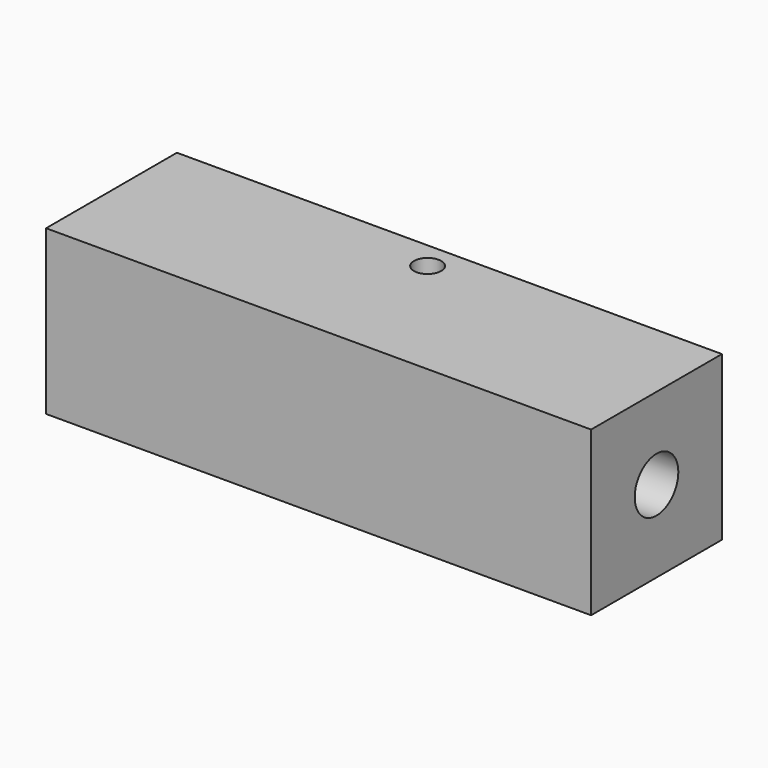
from build123d import *

# Parameters (mm, degrees)
F0_W     = 100
F0_H     = 30
F1_DEPTH = 30
F2_R     = 2.5
F3_DEPTH = 30
F4_R     = 5
F5_DEPTH = 100


with BuildPart() as f1:
    # F0 (on Top) → F1 (new body)
    with BuildSketch(Plane.XY):
        with Locations((50, 15)):
            Rectangle(F0_W, F0_H)
    extrude(amount=F1_DEPTH)

    # F2 (on face) → F3 (cut)
    with BuildSketch(Plane.XY.offset(30)):
        with Locations((50, 25)):
            Circle(F2_R)
    extrude(amount=-F3_DEPTH, mode=Mode.SUBTRACT)

    # F4 (on face) → F5 (cut)
    with BuildSketch(Plane.YZ.offset(100)):
        with Locations((15, 15)):
            Circle(F4_R)
    extrude(amount=-F5_DEPTH, mode=Mode.SUBTRACT)


solid = f1.part
